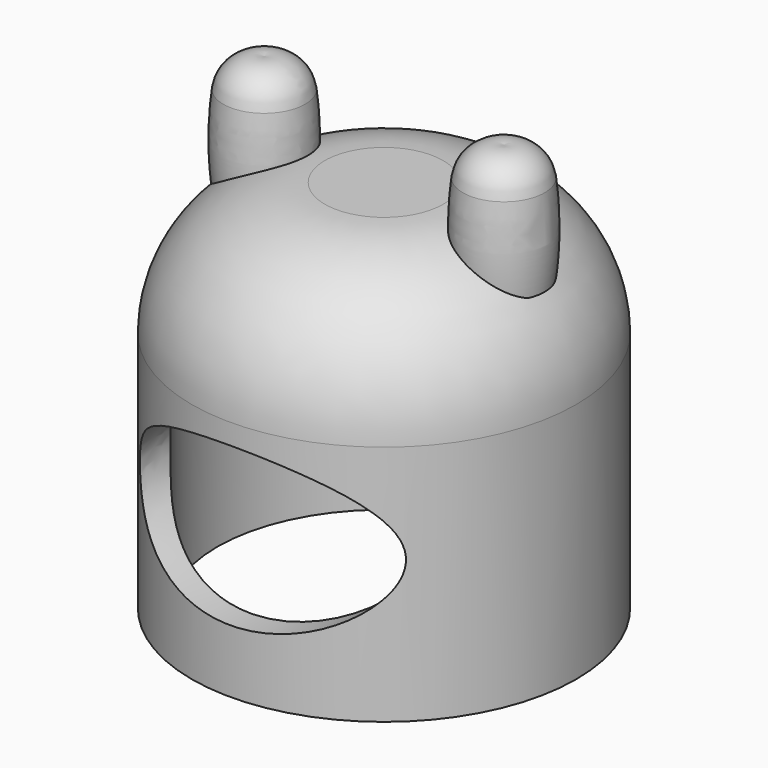
from build123d import *

# Parameters (mm, degrees)
F3_T          = -0.8
F4_R          = 2.55
F5_DEPTH      = 25
F5_DEPTH_BACK = 1.8
F8_DEPTH      = 25
F9_R          = 4.152447


with BuildPart() as f1:
    # F0 (on Front) → F1 (revolve)
    with BuildSketch(Plane.XZ):
        Polygon((2.55, 8.376887), (0, 8.376887), (0, -1.323113), (6, -1.323113), (6, 8.376887), align=None)
    revolve(axis=Axis((0, 0, 5.084906), (0, 0, -1)))

    # F3
    f3_openings = [f1.faces().sort_by_distance(p)[0] for p in [
        (0, 0, -1.323113),
    ]]
    offset(amount=F3_T, openings=f3_openings)

    # F4 (on face) → F5 (cut, two sides)
    with BuildSketch(Plane.XY.offset(8.376887)) as f5_sk:
        Circle(F4_R)
    extrude(amount=-F5_DEPTH, mode=Mode.SUBTRACT)
    extrude(f5_sk.sketch, amount=-F5_DEPTH_BACK, mode=Mode.SUBTRACT)


with BuildPart() as f2:
    # F0 (on Front) → F2 (revolve)
    with BuildSketch(Plane.XZ):
        Polygon((6, 10.376887), (0, 10.376887), (0, 10.176887), (2.55, 10.176887), (2.55, 8.376887), (6, 8.376887), align=None)
    revolve(axis=Axis((0, 0, 5.084906), (0, 0, -1)))

    # F6: union F1
    add(f1.part)

    # F7 (on Front) → F8 (cut)
    with BuildSketch(Plane.XZ):
        with BuildLine():
            add(Edge.make_bspline(
                [(4.152195, 3.117236), (4.152195, 7.394232), (-2.076098, 5.255734), (-8.30439, 3.117236), (-2.076098, 0.978737), (4.152195, -1.159761), (4.152195, 3.117236)],
                knots=[0, 0, 0, 2.094395, 2.094395, 4.18879, 4.18879, 6.283185, 6.283185, 6.283185], degree=2, weights=[1, 0.5, 1, 0.5, 1, 0.5, 1]))
        make_face()
    extrude(amount=F8_DEPTH, mode=Mode.SUBTRACT)

    # F9
    f9_edges = [f2.edges().sort_by_distance(p)[0] for p in [
        (-6, 0, 10.376887),
    ]]
    fillet(f9_edges, radius=F9_R)

    # F14: F13 across plane


with BuildPart() as f13:
    # F12 (on Front) → F13 (revolve)
    with BuildSketch(Plane.XZ):
        with BuildLine():
            Line((-3.73878, 12.630909), (-3.73878, 9))
            Line((-3.73878, 9), (-2.461958, 9))
            ThreePointArc((-2.461958, 9), (-2.37928, 10.361776), (-2.461958, 11.723553))
            ThreePointArc((-2.461958, 11.723553), (-2.900026, 12.459152), (-3.73878, 12.630909))
        make_face()
    revolve(axis=Axis((-3.73878, 0, 12.028113), (0, 0, 1)))


with BuildPart() as f2_1:
    add(f2.part)
    add(f13.part.mirror(Plane.YZ))


    add(f13.part)  # F15 merges F13
    # F12 (on Front) → F15 (revolve)
    with BuildSketch(Plane.XZ):
        with BuildLine():
            Line((-3.73878, 12.630909), (-3.73878, 9))
            Line((-3.73878, 9), (-2.461958, 9))
            ThreePointArc((-2.461958, 9), (-2.37928, 10.361776), (-2.461958, 11.723553))
            ThreePointArc((-2.461958, 11.723553), (-2.900026, 12.459152), (-3.73878, 12.630909))
        make_face()
    revolve(axis=Axis((-3.73878, 0, 12.028113), (0, 0, 1)))


solid = f2_1.part
